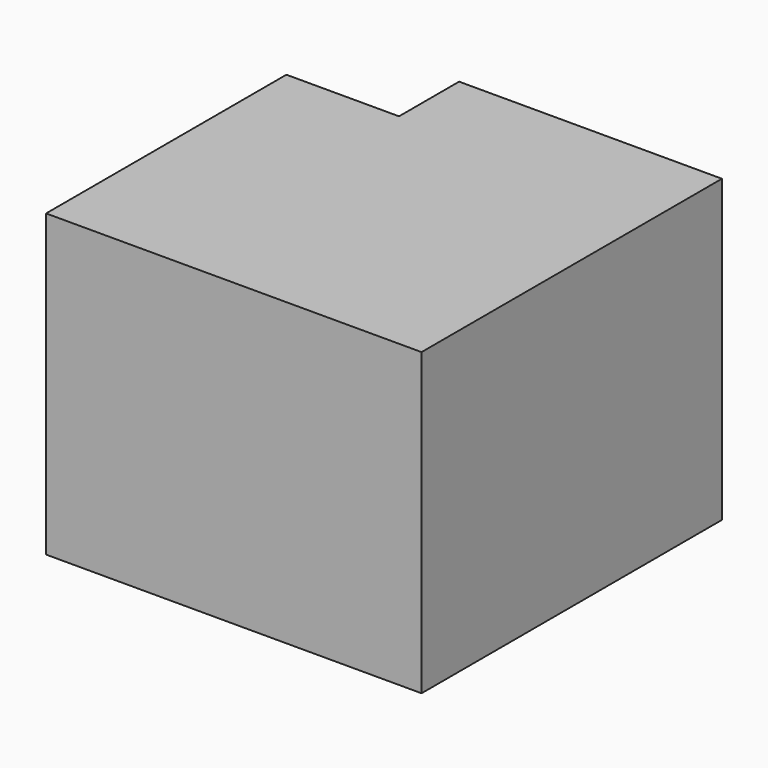
from build123d import *

# Parameters (mm, degrees)
F0_W     = 100
F0_H     = 100
F1_DEPTH = 40
F2_W     = 30
F2_H     = 20
F3_DEPTH = 80.001


with BuildPart() as f1:
    # F0 (on Top) → F1 (new body, symmetric)
    with BuildSketch(Plane.XY):
        Rectangle(F0_W, F0_H)
    extrude(amount=F1_DEPTH, both=True)

    # F2 (on face) → F3 (cut, through all)
    with BuildSketch(Plane.XY.offset(40)):
        with Locations((-35, 40)):
            Rectangle(F2_W, F2_H)
    extrude(amount=-F3_DEPTH, mode=Mode.SUBTRACT)


solid = f1.part
